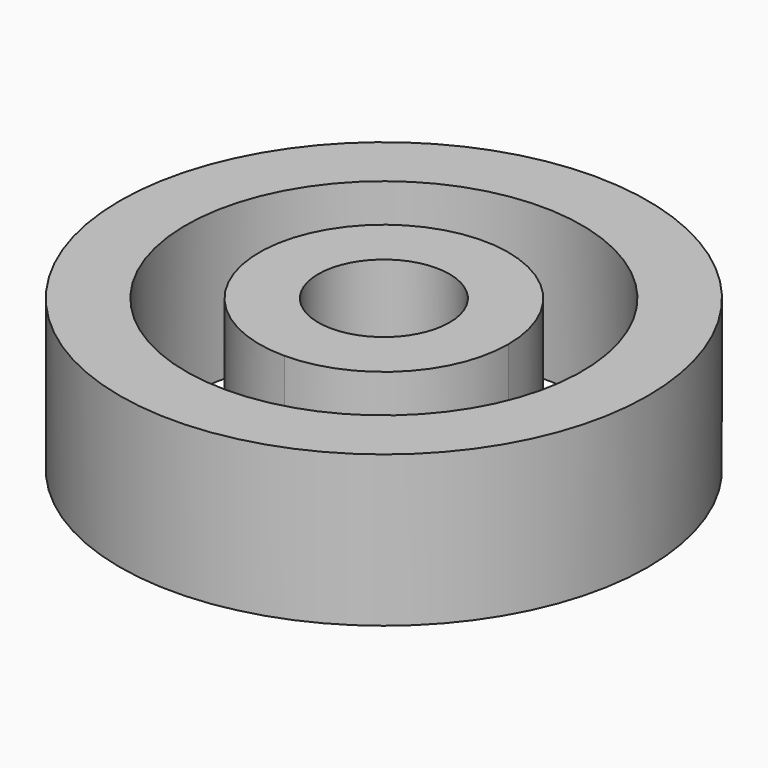
from build123d import *

# Parameters (mm, degrees)
F0_R     = 44.45
F0_R_2   = 11.049
F1_DEPTH = 25.4
F4_DEPTH = 25.4


with BuildPart() as f1:
    # F0 (on Top) → F1 (new body)
    with BuildSketch(Plane.XY):
        Circle(F0_R)
        Circle(F0_R_2, mode=Mode.SUBTRACT)
    extrude(amount=F1_DEPTH)

    # F3 (on Top) + F2 (on face) → F4 (cut)
    with BuildSketch(Plane.XY):
        with BuildLine():
            ThreePointArc((33.3375, 0), (-23.5731723178, 23.5731723178), (0, -33.3375))
            ThreePointArc((0, -33.3375), (23.5731723178, -23.5731723178), (33.3375, 0))
        make_face()
        with BuildLine():
            ThreePointArc((20.955, 0), (14.8174225998, -14.8174225998), (0, -20.955))
            ThreePointArc((0, -20.955), (-14.8174225998, 14.8174225998), (20.955, 0))
        make_face(mode=Mode.SUBTRACT)
    with BuildSketch(Plane.XY.offset(25.4)):
        with BuildLine():
            ThreePointArc((-11.049, 0), (-7.8128228253, 7.8128228253), (0, 11.049))
            Line((0, 11.049), (0, 44.45))
            ThreePointArc((0, 44.45), (-31.4308964237, 31.4308964237), (-44.45, 0))
            Line((-44.45, 0), (-11.049, 0))
        make_face()
    extrude(amount=F4_DEPTH, mode=Mode.SUBTRACT)


solid = f1.part
